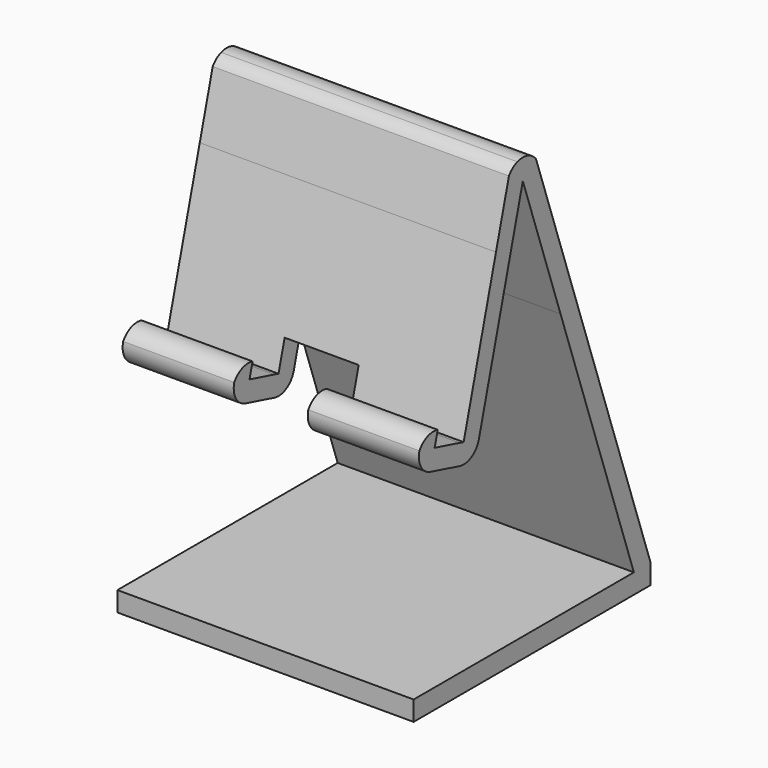
from build123d import *

# Parameters (mm, degrees)
F1_DEPTH = 76.2
F2_W     = 19.05
F2_H     = 9.652
F2_H_2   = 6.545304
F2_H_3   = 5.33992
F3_DEPTH = 12.7


with BuildPart() as f1:
    # F0 (on Right) → F1 (new body)
    with BuildSketch(Plane.YZ):
        Polygon((46.190839, 0), (-24.633227, 0), (-24.633227, -5.08), (51.566773, -5.08), (51.566773, 0), align=None)
        Polygon((22.611038, 68.09658), (46.190839, 0), (51.566773, 0), (27.411395, 69.758799), align=None)
        Polygon((-9.861931, 52.101246), (-9.861931, 46.842043), (-8.54713, 51.748946), align=None)
        Polygon((-19.185047, 49.340165), (-9.861931, 46.842043), (-9.861931, 52.101246), (-17.870246, 54.247068), align=None)
        with BuildLine():
            Line((-3.640227, 50.434146), (6.754722, 89.228623))
            Line((6.754722, 89.228623), (1.847819, 90.543424))
            Line((1.847819, 90.543424), (-8.54713, 51.748946))
            Line((-8.54713, 51.748946), (-9.861931, 46.842043))
            ThreePointArc((-9.861931, 46.842043), (-6.00713, 47.349537), (-3.640227, 50.434146))
        make_face()
        with BuildLine():
            Line((10.479773, 103.130703), (22.611038, 68.09658))
            Line((22.611038, 68.09658), (27.411395, 69.758799))
            Line((27.411395, 69.758799), (14.721684, 106.40567))
            ThreePointArc((14.721684, 106.40567), (12.012158, 108.265974), (8.726252, 108.194731))
            Line((8.726252, 108.194731), (10.479773, 103.130703))
        make_face()
        with BuildLine():
            ThreePointArc((-22.777149, 55.561869), (-22.269655, 51.707068), (-19.185047, 49.340165))
            Line((-19.185047, 49.340165), (-17.870246, 54.247068))
            Line((-17.870246, 54.247068), (-16.884146, 57.927245))
            ThreePointArc((-16.884146, 57.927245), (-20.224877, 57.726724), (-22.777149, 55.561869))
        make_face()
        with BuildLine():
            Line((6.754722, 89.228623), (10.479773, 103.130703))
            Line((10.479773, 103.130703), (8.726252, 108.194731))
            ThreePointArc((8.726252, 108.194731), (7.197812, 107.367204), (6.014596, 106.094047))
            Line((6.014596, 106.094047), (1.847819, 90.543424))
            Line((1.847819, 90.543424), (6.754722, 89.228623))
        make_face()
    extrude(amount=F1_DEPTH)

    # F2 (on face) → F3 (cut)
    with BuildSketch(Plane(origin=(0, 11.049887, 41.238739), x_dir=(1, 0, 0), z_dir=(0, -0.258819, -0.965926))):
        with Locations((38.1, 26.475507)):
            Rectangle(F2_W, F2_H)
        with Locations((38.1, 34.574159)):
            Rectangle(F2_W, F2_H_2)
        with Locations((38.1, 18.979547)):
            Rectangle(F2_W, F2_H_3)
    extrude(amount=-F3_DEPTH, mode=Mode.SUBTRACT)


solid = f1.part
